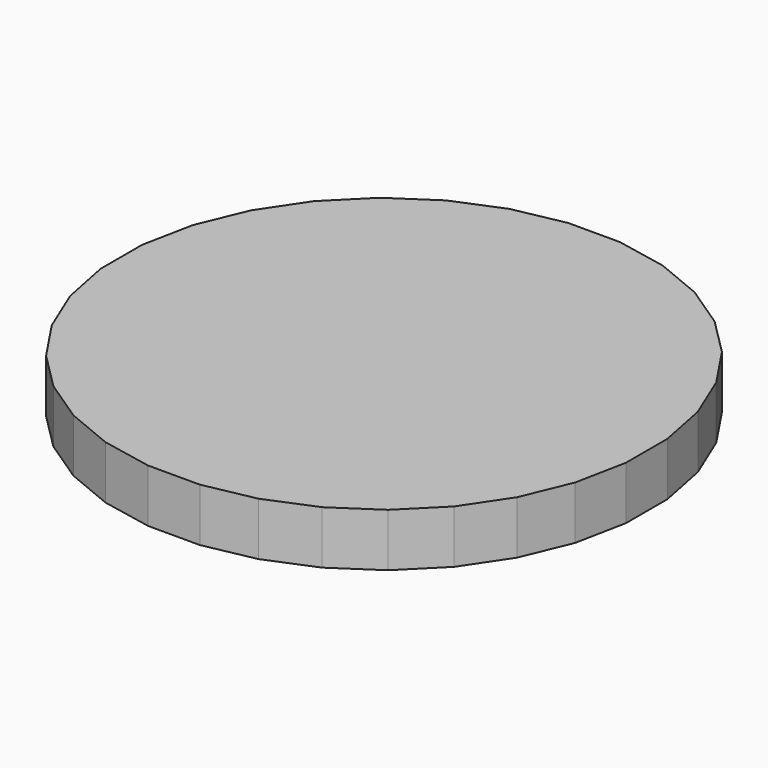
from build123d import *

# Parameters (mm, degrees)
F1_DEPTH = 12.7


with BuildPart() as f1:
    # F0 (on Top) → F1 (new body)
    with BuildSketch(Plane.XY):
        Polygon((6.17555, -62.701412), (18.289327, -60.291831), (16.85737, -55.571301), (5.692037, -57.792224), align=None)
        Polygon((-44.890152, -36.840395), (-48.703367, -39.96982), (-39.96982, -48.703367), (-36.840395, -44.890152), align=None)
        Polygon((-55.571301, -16.85737), (-60.291831, -18.289327), (-55.56527, -29.700256), (-51.214805, -27.374883), align=None)
        Polygon((5.692037, 57.792224), (-5.692037, 57.792224), (-16.85737, 55.571301), (-27.374883, 51.214805), (-36.840395, 44.890152), (-44.890152, 36.840395), (-51.214805, 27.374883), (-55.571301, 16.85737), (-57.792224, 5.692037), (-57.792224, -5.692037), (-55.571301, -16.85737), (-51.214805, -27.374883), (-44.890152, -36.840395), (-36.840395, -44.890152), (-27.374883, -51.214805), (-16.85737, -55.571301), (-5.692037, -57.792224), (5.692037, -57.792224), (16.85737, -55.571301), (27.374883, -51.214805), (36.840395, -44.890152), (44.890152, -36.840395), (51.214805, -27.374883), (55.571301, -16.85737), (57.792224, -5.692037), (57.792224, 5.692037), (55.571301, 16.85737), (51.214805, 27.374883), (44.890152, 36.840395), (36.840395, 44.890152), (27.374883, 51.214805), (16.85737, 55.571301), align=None)
        Polygon((62.701412, -6.17555), (62.701412, 6.17555), (57.792224, 5.692037), (57.792224, -5.692037), align=None)
        Polygon((60.291831, -18.289327), (62.701412, -6.17555), (57.792224, -5.692037), (55.571301, -16.85737), align=None)
        Polygon((-27.374883, -51.214805), (-29.700256, -55.56527), (-18.289327, -60.291831), (-16.85737, -55.571301), align=None)
        Polygon((55.56527, -29.700256), (60.291831, -18.289327), (55.571301, -16.85737), (51.214805, -27.374883), align=None)
        Polygon((18.289327, 60.291831), (6.17555, 62.701412), (5.692037, 57.792224), (16.85737, 55.571301), align=None)
        Polygon((29.700256, 55.56527), (18.289327, 60.291831), (16.85737, 55.571301), (27.374883, 51.214805), align=None)
        Polygon((-57.792224, 5.692037), (-62.701412, 6.17555), (-62.701412, -6.17555), (-57.792224, -5.692037), align=None)
        Polygon((-57.792224, -5.692037), (-62.701412, -6.17555), (-60.291831, -18.289327), (-55.571301, -16.85737), align=None)
        Polygon((-36.840395, 44.890152), (-39.96982, 48.703367), (-48.703367, 39.96982), (-44.890152, 36.840395), align=None)
        Polygon((-27.374883, 51.214805), (-29.700256, 55.56527), (-39.96982, 48.703367), (-36.840395, 44.890152), align=None)
        Polygon((48.703367, 39.96982), (39.96982, 48.703367), (36.840395, 44.890152), (44.890152, 36.840395), align=None)
        Polygon((-16.85737, 55.571301), (-18.289327, 60.291831), (-29.700256, 55.56527), (-27.374883, 51.214805), align=None)
        Polygon((-36.840395, -44.890152), (-39.96982, -48.703367), (-29.700256, -55.56527), (-27.374883, -51.214805), align=None)
        Polygon((39.96982, 48.703367), (29.700256, 55.56527), (27.374883, 51.214805), (36.840395, 44.890152), align=None)
        Polygon((29.700256, -55.56527), (39.96982, -48.703367), (36.840395, -44.890152), (27.374883, -51.214805), align=None)
        Polygon((-51.214805, -27.374883), (-55.56527, -29.700256), (-48.703367, -39.96982), (-44.890152, -36.840395), align=None)
        Polygon((-5.692037, -57.792224), (-6.17555, -62.701412), (6.17555, -62.701412), (5.692037, -57.792224), align=None)
        Polygon((48.703367, -39.96982), (55.56527, -29.700256), (51.214805, -27.374883), (44.890152, -36.840395), align=None)
        Polygon((18.289327, -60.291831), (29.700256, -55.56527), (27.374883, -51.214805), (16.85737, -55.571301), align=None)
        Polygon((39.96982, -48.703367), (48.703367, -39.96982), (44.890152, -36.840395), (36.840395, -44.890152), align=None)
        Polygon((6.17555, 62.701412), (-6.17555, 62.701412), (-5.692037, 57.792224), (5.692037, 57.792224), align=None)
        Polygon((-51.214805, 27.374883), (-55.56527, 29.700256), (-60.291831, 18.289327), (-55.571301, 16.85737), align=None)
        Polygon((55.56527, 29.700256), (48.703367, 39.96982), (44.890152, 36.840395), (51.214805, 27.374883), align=None)
        Polygon((-5.692037, 57.792224), (-6.17555, 62.701412), (-18.289327, 60.291831), (-16.85737, 55.571301), align=None)
        Polygon((-55.571301, 16.85737), (-60.291831, 18.289327), (-62.701412, 6.17555), (-57.792224, 5.692037), align=None)
        Polygon((60.291831, 18.289327), (55.56527, 29.700256), (51.214805, 27.374883), (55.571301, 16.85737), align=None)
        Polygon((62.701412, 6.17555), (60.291831, 18.289327), (55.571301, 16.85737), (57.792224, 5.692037), align=None)
        Polygon((-44.890152, 36.840395), (-48.703367, 39.96982), (-55.56527, 29.700256), (-51.214805, 27.374883), align=None)
        Polygon((-16.85737, -55.571301), (-18.289327, -60.291831), (-6.17555, -62.701412), (-5.692037, -57.792224), align=None)
    extrude(amount=F1_DEPTH)


solid = f1.part
